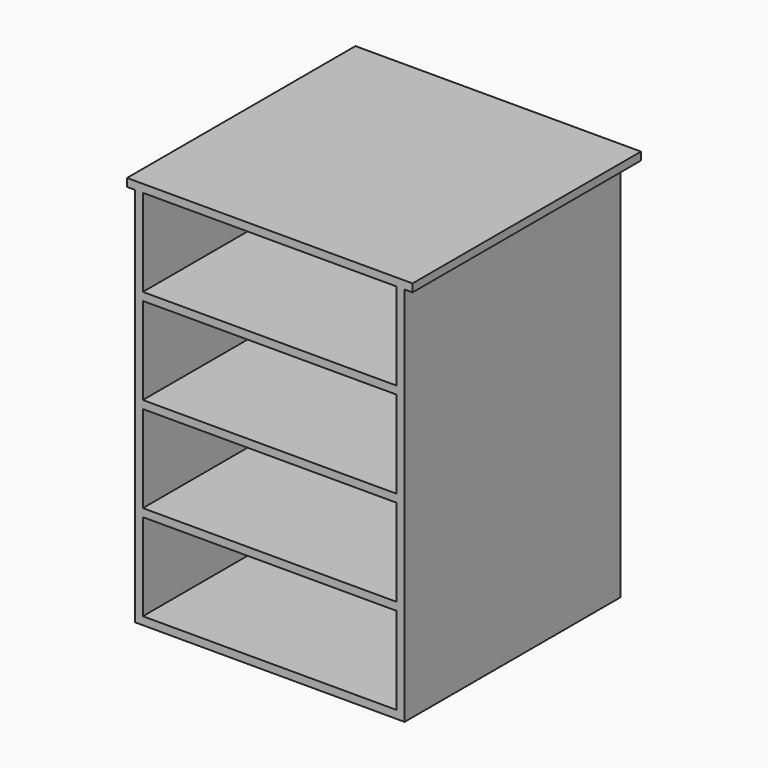
from build123d import *

# Parameters (mm, degrees)
F0_W     = 863.6
F0_H     = 863.6
F1_DEPTH = 1219.2
F2_W     = 863.6
F2_H     = 863.6
F3_DEPTH = 25.4
F4_W     = 812.8
F4_H     = 279.4
F5_DEPTH = 762


with BuildPart() as f1:
    # F0 (on Top) → F1 (new body)
    with BuildSketch(Plane.XY):
        with Locations((435.757004, 431.8)):
            Rectangle(F0_W, F0_H)
    extrude(amount=F1_DEPTH)

    # F2 (on face) → F3 (join)
    with BuildSketch(Plane.XY.offset(1219.2)):
        Polygon((867.557004, 863.6), (867.557004, 0), (892.957004, 0), (892.957004, 914.4), (-21.442996, 914.4), (-21.442996, 0), (3.957004, 0), (3.957004, 863.6), align=None)
        with Locations((435.757004, 431.8)):
            Rectangle(F2_W, F2_H)
    extrude(amount=F3_DEPTH)

    # F4 (on face) → F5 (cut)
    with BuildSketch(Plane.XZ):
        with Locations((435.757004, 1079.5)):
            Rectangle(F4_W, F4_H)
        with Locations((435.757004, 774.7)):
            Rectangle(F4_W, F4_H)
        with Locations((435.757004, 469.9)):
            Rectangle(F4_W, F4_H)
        with Locations((435.757004, 165.1)):
            Rectangle(F4_W, F4_H)
    extrude(amount=-F5_DEPTH, mode=Mode.SUBTRACT)


solid = f1.part
